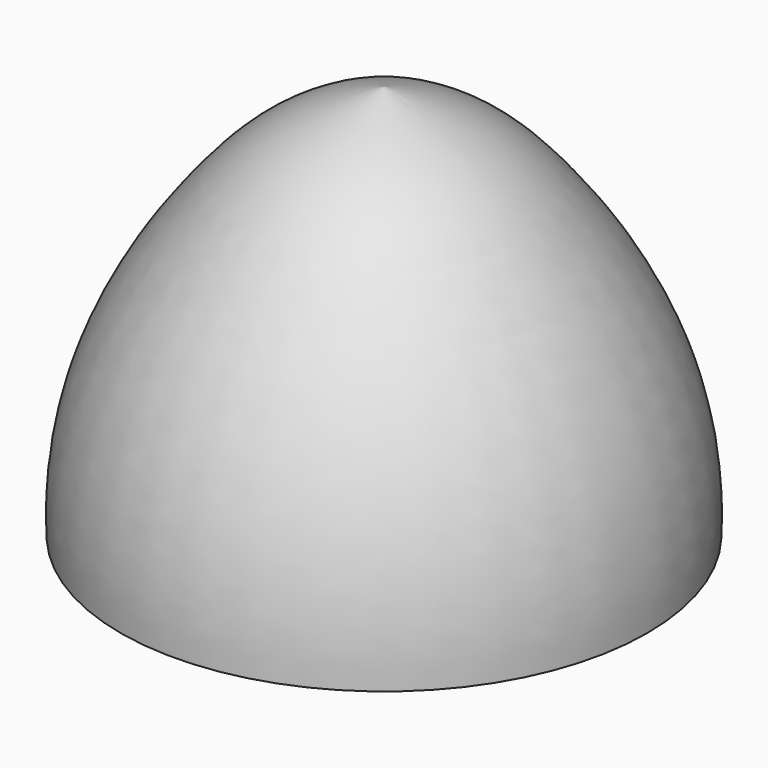
from build123d import *


with BuildPart() as f1:
    # F0 (on Front) → F1 (revolve)
    with BuildSketch(Plane.XZ):
        with BuildLine():
            Line((0, 60), (0, 0))
            Line((0, 0), (40, 0))
            add(Edge.make_bspline(
                [(0, 60), (12.7081909085, 56.129167074), (24.5784071015, 46.5165217946), (41.0044599637, 19.9833444882), (40, 0)],
                knots=[0, 0, 0, 0, 0.4372051439, 1, 1, 1, 1], degree=3))
        make_face()
    revolve(axis=Axis((0, 0, 30), (0, 0, 1)))


with BuildPart() as f2_1:
    # F2: copy of F1
    add(f1.part)


solid = Compound([f1.part, f2_1.part])
